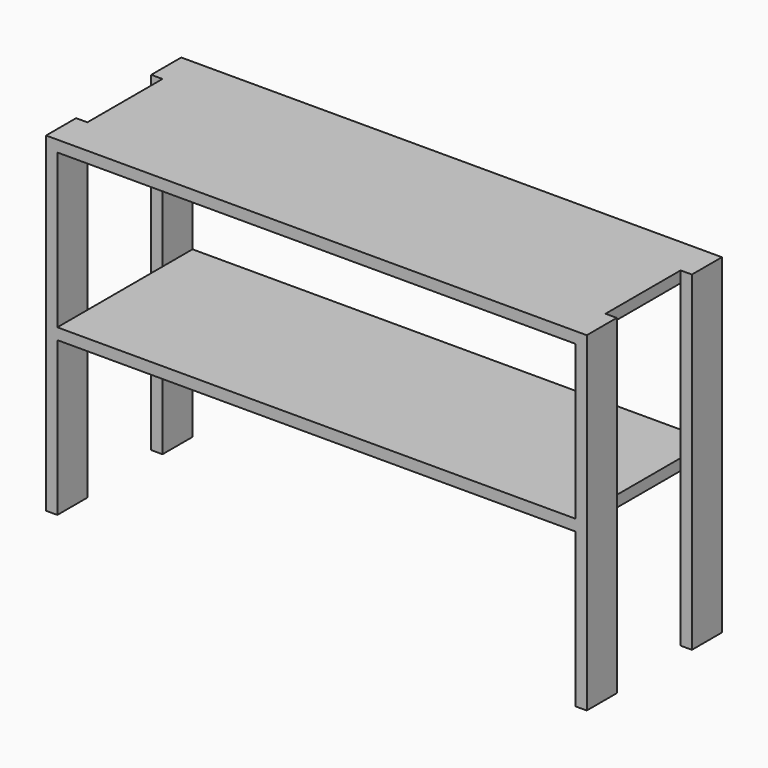
from build123d import *

# Parameters (mm, degrees)
F0_W     = 914.4
F0_H     = 558.8
F1_DEPTH = 285.75
F2_W     = 876.3
F2_H     = 260.35
F3_DEPTH = 285.751
F4_W     = 158.75
F4_H     = 558.8
F5_DEPTH = 19.05
F6_W     = 158.75
F6_H     = 558.8
F7_DEPTH = 19.05


with BuildPart() as f1:
    # F0 (on Front) → F1 (new body)
    with BuildSketch(Plane.XZ):
        with Locations((-544.727786, 279.4)):
            Rectangle(F0_W, F0_H)
    extrude(amount=F1_DEPTH)

    # F2 (on face) → F3 (cut, through all)
    with BuildSketch(Plane.XZ.offset(285.75)):
        with Locations((-544.727786, 130.175)):
            Rectangle(F2_W, F2_H)
        with Locations((-544.727786, 409.575)):
            Rectangle(F2_W, F2_H)
    extrude(amount=-F3_DEPTH, mode=Mode.SUBTRACT)

    # F4 (on face) → F5 (cut, through all)
    with BuildSketch(Plane.YZ.offset(-87.527786)):
        with Locations((-142.875, 279.4)):
            Rectangle(F4_W, F4_H)
    extrude(amount=-F5_DEPTH, mode=Mode.SUBTRACT)

    # F6 (on face) → F7 (cut, through all)
    with BuildSketch(Plane(origin=(-1001.927786, 0, 0), x_dir=(0, -1, 0), z_dir=(-1, 0, 0))):
        with Locations((142.875, 279.4)):
            Rectangle(F6_W, F6_H)
    extrude(amount=-F7_DEPTH, mode=Mode.SUBTRACT)


solid = f1.part
